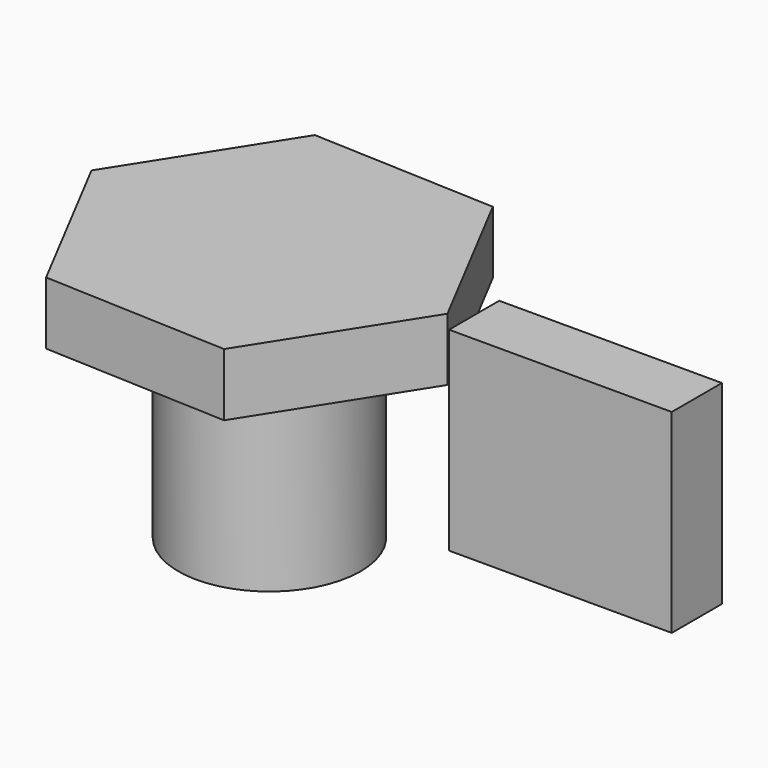
from build123d import *

# Parameters (mm, degrees)
F1_DEPTH = 25.4
F2_R     = 36.913849
F3_DEPTH = 80
F4_W     = 90.19012
F4_H     = 78.783322
F5_DEPTH = 25.4


with BuildPart() as f1:
    # F0 (on Top) → F1 (new body)
    with BuildSketch(Plane.XY):
        Polygon((74.608094, -3.165196), (40.045187, 63.029907), (-34.562907, 66.195103), (-74.608094, 3.165196), (-40.045187, -63.029907), (34.562907, -66.195103), align=None)
    extrude(amount=F1_DEPTH)

    # F2 (on face) → F3 (join)
    with BuildSketch(Plane(origin=(0, 0, 0), x_dir=(1, 0, 0), z_dir=(0, 0, -1))):
        Circle(F2_R)
    extrude(amount=F3_DEPTH)


with BuildPart() as f5:
    # F4 (on Front) → F5 (new body)
    with BuildSketch(Plane.XZ):
        with Locations((138.156857, -4.642328)):
            Rectangle(F4_W, F4_H)
    extrude(amount=F5_DEPTH)


solid = Compound([f1.part, f5.part])
